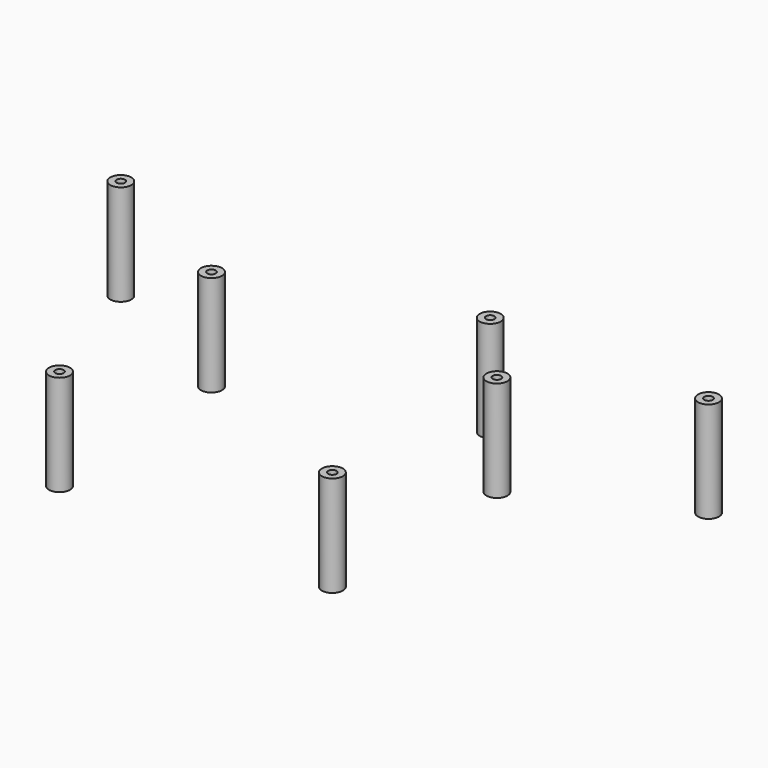
from build123d import *

# Parameters (mm, degrees)
TUBE_R        = 2.5
TUBE_R_2      = 1
TUBE_DEPTH    = 24
TUBE001_R     = 2.5
TUBE001_R_2   = 1
TUBE001_DEPTH = 24
TUBE002_R     = 2.5
TUBE002_R_2   = 1
TUBE002_DEPTH = 24
TUBE003_R     = 2.5
TUBE003_R_2   = 1
TUBE003_DEPTH = 24
TUBE004_R     = 2.5
TUBE004_R_2   = 1
TUBE004_DEPTH = 24
TUBE005_R     = 2.5
TUBE005_R_2   = 1
TUBE005_DEPTH = 24
TUBE006_R     = 2.5
TUBE006_R_2   = 1
TUBE006_DEPTH = 24


with BuildPart() as tube:
    # Tube → Tube (new body)
    with BuildSketch(Plane(origin=(34, -16, 2), x_dir=(1, 0, 0), z_dir=(0, 0, 1))):
        Circle(TUBE_R)
        Circle(TUBE_R_2, mode=Mode.SUBTRACT)
    extrude(amount=TUBE_DEPTH)


with BuildPart() as tube001:
    # Tube001 → Tube001 (new body)
    with BuildSketch(Plane(origin=(-31, -16, 2), x_dir=(1, 0, 0), z_dir=(0, 0, 1))):
        Circle(TUBE001_R)
        Circle(TUBE001_R_2, mode=Mode.SUBTRACT)
    extrude(amount=TUBE001_DEPTH)


with BuildPart() as tube002:
    # Tube002 → Tube002 (new body)
    with BuildSketch(Plane(origin=(34, 33, 2), x_dir=(1, 0, 0), z_dir=(0, 0, 1))):
        Circle(TUBE002_R)
        Circle(TUBE002_R_2, mode=Mode.SUBTRACT)
    extrude(amount=TUBE002_DEPTH)


with BuildPart() as tube003:
    # Tube003 → Tube003 (new body)
    with BuildSketch(Plane(origin=(-34, 33, 2), x_dir=(1, 0, 0), z_dir=(0, 0, 1))):
        Circle(TUBE003_R)
        Circle(TUBE003_R_2, mode=Mode.SUBTRACT)
    extrude(amount=TUBE003_DEPTH)


with BuildPart() as tube004:
    # Tube004 → Tube004 (new body)
    with BuildSketch(Plane(origin=(70, 51, 2), x_dir=(1, 0, 0), z_dir=(0, 0, 1))):
        Circle(TUBE004_R)
        Circle(TUBE004_R_2, mode=Mode.SUBTRACT)
    extrude(amount=TUBE004_DEPTH)


with BuildPart() as tube005:
    # Tube005 → Tube005 (new body)
    with BuildSketch(Plane(origin=(-70, 51, 2), x_dir=(1, 0, 0), z_dir=(0, 0, 1))):
        Circle(TUBE005_R)
        Circle(TUBE005_R_2, mode=Mode.SUBTRACT)
    extrude(amount=TUBE005_DEPTH)


with BuildPart() as tornillos:
    # Tube006 → Tube006 (new body)
    with BuildSketch(Plane(origin=(18, 51, 2), x_dir=(1, 0, 0), z_dir=(0, 0, 1))):
        Circle(TUBE006_R)
        Circle(TUBE006_R_2, mode=Mode.SUBTRACT)
    extrude(amount=TUBE006_DEPTH)

    # Fusion023: union Tube, Tube001, Tube002, Tube003, Tube004, Tube005
    add(tube.part)
    add(tube001.part)
    add(tube002.part)
    add(tube003.part)
    add(tube004.part)
    add(tube005.part)


solid = tornillos.part
